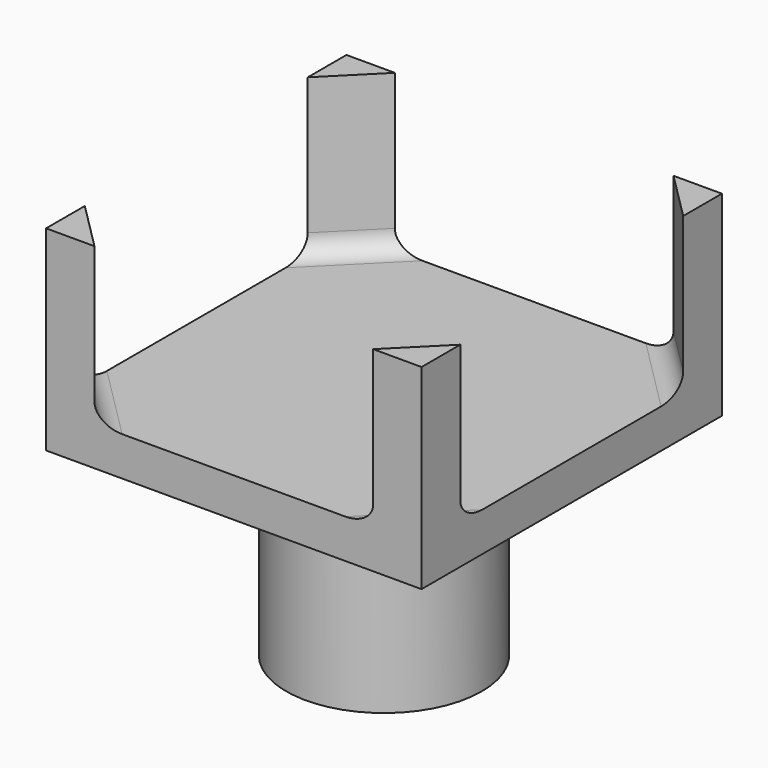
from build123d import *

# Parameters (mm, degrees)
SKETCH_W     = 19.2
SKETCH_H     = 19.2
PAD_DEPTH    = 2
PAD001_DEPTH = 8
FILLET_R     = 1
SKETCH012_R  = 5
PAD002_DEPTH = 10
POCKET_DEPTH = 10


with BuildPart() as part:
    # Sketch → Pad (new body)
    with BuildSketch(Plane.XY):
        Rectangle(SKETCH_W, SKETCH_H)
    extrude(amount=PAD_DEPTH)

    # Sketch011 → Pad001 (new body)
    with BuildSketch(Plane.XY.offset(2)):
        Polygon((-9.6, 7.125126), (-7.125126, 9.6), (-9.6, 9.6), align=None)
        Polygon((7.125126, 9.6), (9.6, 9.6), (9.6, 7.125126), align=None)
        Polygon((7.125126, -9.6), (9.6, -9.6), (9.6, -7.125126), align=None)
        Polygon((-7.125126, -9.6), (-9.6, -9.6), (-9.6, -7.125126), align=None)
    extrude(amount=PAD001_DEPTH)

    # Fillet
    fillet_edges = [part.edges().sort_by_distance(p)[0] for p in [
        (-8.362563, 8.362563, 2),
        (8.362563, 8.362563, 2),
        (8.362563, -8.362563, 2),
        (-8.362563, -8.362563, 2),
    ]]
    fillet(fillet_edges, radius=FILLET_R)

    # Sketch012 → Pad002 (new body)
    with BuildSketch(Plane(origin=(0, 0, 0), x_dir=(1, 0, 0), z_dir=(0, 0, -1))):
        Circle(SKETCH012_R)
    extrude(amount=PAD002_DEPTH)

    # Sketch008 → Pocket (cut)
    with BuildSketch(Plane(origin=(0, 0, -10), x_dir=(1, 0, 0), z_dir=(0, 0, -1))):
        with BuildLine():
            Line((-1.684191, 2.02), (1.684191, 2.02))
            ThreePointArc((-1.684191, 2.02), (0, -2.63), (1.684191, 2.02))
        make_face()
    extrude(amount=-POCKET_DEPTH, mode=Mode.SUBTRACT)


solid = part.part
